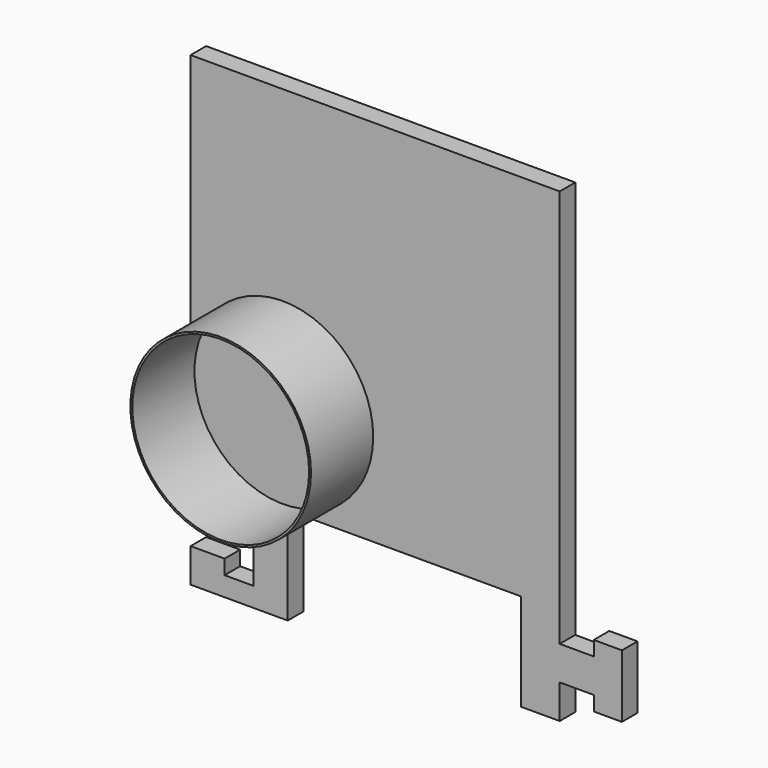
from build123d import *

# Parameters (mm, degrees)
PAD_DEPTH     = 2
SKETCH001_R   = 9.3
SKETCH001_R_2 = 9.1
PAD001_DEPTH  = 8


with BuildPart() as part:
    # Sketch → Pad (new body)
    with BuildSketch(Plane.XZ):
        Polygon((10, 0), (10, -10), (0, -10), (0, -6.5), (3.5, -6.5), (3.5, -8), (6.5, -8), (6.5, -2), (3.5, -2), (3.5, -3.5), (0, -3.5), (0, 0), (0, 38), (38, 38), (38, 0.5), (38, -3.005), (41.505, -3.005), (41.505, -1.505), (44.405, -1.505), (44.405, -7.995), (41.505, -7.995), (41.505, -6.495), (38, -6.495), (38, -10), (34, -10), (34, 0), align=None)
    extrude(amount=PAD_DEPTH)

    # Sketch001 (on Face28 of Pad) → Pad001 (join)
    with BuildSketch(Plane.XZ.offset(2)):
        with Locations((9.5, 9.5)):
            Circle(SKETCH001_R)
        with Locations((9.5, 9.5)):
            Circle(SKETCH001_R_2, mode=Mode.SUBTRACT)
    extrude(amount=PAD001_DEPTH)


solid = part.part
